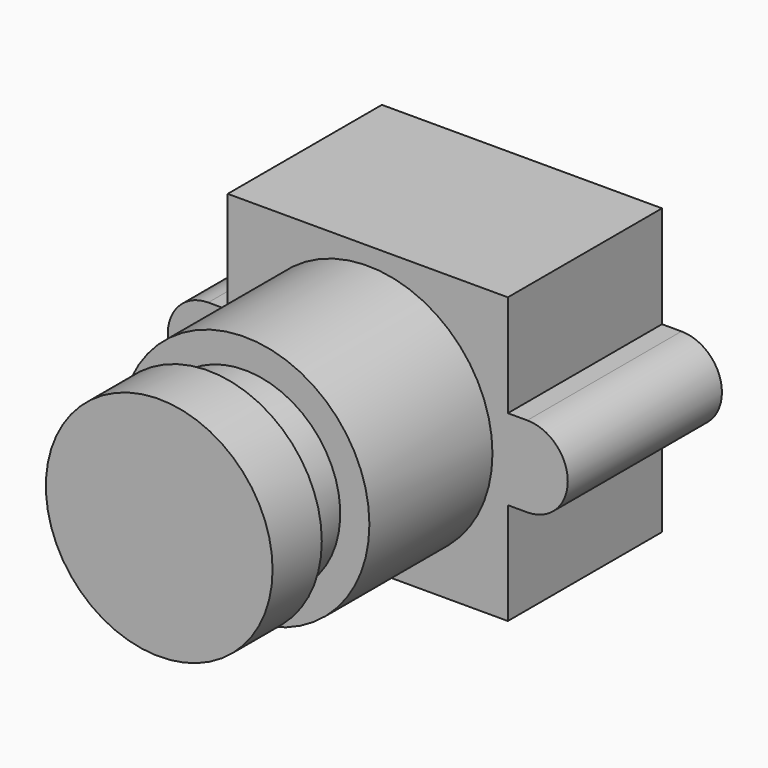
from build123d import *

# Parameters (mm, degrees)
F1_DEPTH  = 11.9
F2_R      = 7.7
F3_DEPTH  = 9.5
F5_R      = 7
F6_DEPTH  = 3.8
F7_R      = 5.9
F8_DEPTH  = 2.8
F9_W      = 5.7
F9_H      = 3.7
F10_DEPTH = 3


with BuildPart() as f1:
    # F0 (on Front) → F1 (new body)
    with BuildSketch(Plane.XZ):
        with BuildLine():
            Line((8.65, 17.6), (-8.65, 17.6))
            Line((-8.65, 17.6), (-8.65, 11.3))
            Line((-8.65, 11.3), (-9.85, 11.3))
            ThreePointArc((-9.85, 11.3), (-12.35, 8.8), (-9.85, 6.3))
            Line((-9.85, 6.3), (-8.65, 6.3))
            Line((-8.65, 6.3), (-8.65, 0))
            Line((-8.65, 0), (8.65, 0))
            Line((8.65, 0), (8.65, 6.3))
            Line((8.65, 6.3), (9.85, 6.3))
            ThreePointArc((9.85, 6.3), (12.35, 8.8), (9.85, 11.3))
            Line((9.85, 11.3), (8.65, 11.3))
            Line((8.65, 11.3), (8.65, 17.6))
        make_face()
    extrude(amount=F1_DEPTH)

    # F2 (on face) → F3 (join)
    with BuildSketch(Plane.XZ.offset(11.9)):
        with Locations((0, 8.8)):
            Circle(F2_R)
    extrude(amount=F3_DEPTH)


with BuildPart() as f6:
    # F5 (on offset) → F6 (new body)
    with BuildSketch(Plane.XZ.offset(28)):
        with Locations((0, 8.8)):
            Circle(F5_R)
    extrude(amount=-F6_DEPTH)

    # F7 (on face) → F8 (join, through all)
    with BuildSketch(Plane(origin=(0, -24.2, 0), x_dir=(-1, 0, 0), z_dir=(0, 1, 0))):
        with Locations((0, 8.8)):
            Circle(F7_R)
    extrude(amount=F8_DEPTH)


with BuildPart() as f10:
    # F9 (on face) → F10 (new body)
    with BuildSketch(Plane.XZ):
        with Locations((2.5, 3.85)):
            Rectangle(F9_W, F9_H)
    extrude(amount=-F10_DEPTH)


solid = Compound([f1.part, f6.part, f10.part])
